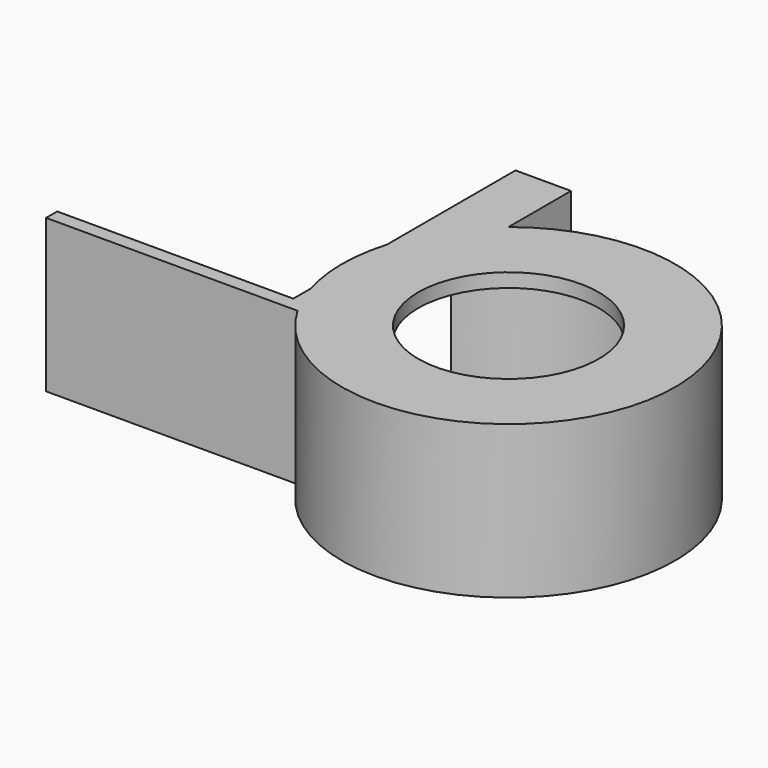
from build123d import *

# Parameters (mm, degrees)
CYLINDER040_R     = 6.5
CYLINDER040_DEPTH = 11
CYLINDER026_R     = 2.5
CYLINDER026_DEPTH = 11
CYLINDER025_R     = 2.5
CYLINDER025_DEPTH = 11
BOX006_W          = 1
BOX006_H          = 7
BOX006_DEPTH      = 11
BOX_W             = 3
BOX_H             = 20
BOX_DEPTH         = 1
CYLINDER024_R     = 12
CYLINDER024_DEPTH = 1
PAD011_DEPTH      = 10
BOX005_W          = 177
BOX005_H          = 100
BOX005_DEPTH      = 10
CYLINDER018_R     = 7.5
CYLINDER018_DEPTH = 10
CYLINDER016_R     = 10
CYLINDER016_DEPTH = 10
CYLINDER017_R     = 7.5
CYLINDER017_DEPTH = 10
CYLINDER019_R     = 10
CYLINDER019_DEPTH = 10
PAD009_DEPTH      = 6.5
PAD008_DEPTH      = 4
PAD010_DEPTH      = 10
CYLINDER021_R     = 7.5
CYLINDER021_DEPTH = 10
CYLINDER020_R     = 10
CYLINDER020_DEPTH = 10
CYLINDER022_R     = 7.5
CYLINDER022_DEPTH = 10
CYLINDER023_R     = 10
CYLINDER023_DEPTH = 10
TUBE_R            = 12
TUBE_R_2          = 10.1
TUBE_DEPTH        = 10
BOX007_W          = 19
BOX007_H          = 1
BOX007_DEPTH      = 11


with BuildPart() as cilindro040:
    # Cylinder040 → Cylinder040 (new body)
    with BuildSketch(Plane(origin=(-97, 0, 0), x_dir=(1, 0, 0), z_dir=(0, 0, 1))):
        Circle(CYLINDER040_R)
    extrude(amount=CYLINDER040_DEPTH)


with BuildPart() as cilindro026:
    # Cylinder026 → Cylinder026 (new body)
    with BuildSketch(Plane(origin=(-83, 10, 0), x_dir=(1, 0, 0), z_dir=(0, 0, 1))):
        Circle(CYLINDER026_R)
    extrude(amount=CYLINDER026_DEPTH)


with BuildPart() as cilindro025:
    # Cylinder025 → Cylinder025 (new body)
    with BuildSketch(Plane(origin=(-75, 0, 0), x_dir=(1, 0, 0), z_dir=(0, 0, 1))):
        Circle(CYLINDER025_R)
    extrude(amount=CYLINDER025_DEPTH)


with BuildPart() as cubo002:
    # Box006 → Box006 (new body)
    with BuildSketch(Plane(origin=(-89.5, 8, 0), x_dir=(1, 0, 0), z_dir=(0, 0, 1))):
        with Locations((0.5, 3.5)):
            Rectangle(BOX006_W, BOX006_H)
    extrude(amount=BOX006_DEPTH)


with BuildPart() as cubo001:
    # Box → Box (new body)
    with BuildSketch(Plane(origin=(-88.5, -5, 10), x_dir=(1, 0, 0), z_dir=(0, 0, 1))):
        with Locations((1.5, 10)):
            Rectangle(BOX_W, BOX_H)
    extrude(amount=BOX_DEPTH)


with BuildPart() as cilindro024:
    # Cylinder024 → Cylinder024 (new body)
    with BuildSketch(Plane(origin=(-97, 0, 10), x_dir=(1, 0, 0), z_dir=(0, 0, 1))):
        Circle(CYLINDER024_R)
    extrude(amount=CYLINDER024_DEPTH)


with BuildPart() as body008:
    # Sketch011 → Pad011 (new body)
    with BuildSketch(Plane.XY):
        Polygon((8.5, 4.907477), (0, 9.814955), (-8.5, 4.907477), (-8.5, -4.907477), (0, -9.814955), (8.5, -4.907477), align=None)
    extrude(amount=PAD011_DEPTH)


with BuildPart() as body008_1:
    # Body008 placement: moved
    add(body008.part.moved(Location((0, 45.1, 0))))


with BuildPart() as cut018:
    # Box005 → Box005 (new body)
    with BuildSketch(Plane(origin=(-88.5, -5, 0), x_dir=(1, 0, 0), z_dir=(0, 0, 1))):
        with Locations((88.5, 50)):
            Rectangle(BOX005_W, BOX005_H)
    extrude(amount=BOX005_DEPTH)

    # Cut018: cut Body008
    add(body008_1.part, mode=Mode.SUBTRACT)


with BuildPart() as cilindro018:
    # Cylinder018 → Cylinder018 (new body)
    with BuildSketch(Plane(origin=(0, 20, 0), x_dir=(1, 0, 0), z_dir=(0, 0, 1))):
        Circle(CYLINDER018_R)
    extrude(amount=CYLINDER018_DEPTH)


with BuildPart() as obj1:
    # Cylinder016 → Cylinder016 (new body)
    with BuildSketch(Plane(origin=(0, 20, 0), x_dir=(1, 0, 0), z_dir=(0, 0, 1))):
        Circle(CYLINDER016_R)
    extrude(amount=CYLINDER016_DEPTH)

    # Cut014: cut Cilindro018
    add(cilindro018.part, mode=Mode.SUBTRACT)


with BuildPart() as obj1_1:
    # Cut014 placement: moved
    add(obj1.part.moved(Location((-97, -20, 0))))


with BuildPart() as cilindro017:
    # Cylinder017 → Cylinder017 (new body)
    with BuildSketch(Plane(origin=(0, 20, 0), x_dir=(1, 0, 0), z_dir=(0, 0, 1))):
        Circle(CYLINDER017_R)
    extrude(amount=CYLINDER017_DEPTH)


with BuildPart() as fusion007:
    # Cylinder019 → Cylinder019 (new body)
    with BuildSketch(Plane(origin=(0, 20, 0), x_dir=(1, 0, 0), z_dir=(0, 0, 1))):
        Circle(CYLINDER019_R)
    extrude(amount=CYLINDER019_DEPTH)

    # Cut015: cut Cilindro017
    add(cilindro017.part, mode=Mode.SUBTRACT)


with BuildPart() as fusion007_1:
    # Cut015 placement: moved
    add(fusion007.part.moved(Location((97, -20, 0))))

    # Fusion007: union obj1
    add(obj1_1.part)


with BuildPart() as cuerpo005:
    # Sketch010 → Pad009 (new body)
    with BuildSketch(Plane.XY):
        Polygon((0, 7.505553), (-6.5, 3.752777), (-6.5, -3.752777), (0, -7.505553), (6.5, -3.752777), (6.5, 3.752777), align=None)
    extrude(amount=PAD009_DEPTH)

    # Sketch009 (on Face8 of Pad009) → Pad008 (join)
    with BuildSketch(Plane.XY.offset(6.5)):
        Polygon((0, 5.773503), (-5, 2.886751), (-5, -2.886751), (0, -5.773503), (5, -2.886751), (5, 2.886751), align=None)
    extrude(amount=PAD008_DEPTH)


with BuildPart() as cut016:
    # Sketch008 → Pad010 (new body)
    with BuildSketch(Plane.XY):
        Polygon((0, 9.814955), (-8.5, 4.907477), (-8.5, -4.907477), (0, -9.814955), (8.5, -4.907477), (8.5, 4.907477), align=None)
    extrude(amount=PAD010_DEPTH)

    # Cut016: cut Cuerpo005
    add(cuerpo005.part, mode=Mode.SUBTRACT)


with BuildPart() as cut016_1:
    # Cut016 placement: moved
    add(cut016.part.moved(Location((0, 45.1, 0))))


with BuildPart() as cilindro021:
    # Cylinder021 → Cylinder021 (new body)
    with BuildSketch(Plane(origin=(0, 20, 0), x_dir=(1, 0, 0), z_dir=(0, 0, 1))):
        Circle(CYLINDER021_R)
    extrude(amount=CYLINDER021_DEPTH)


with BuildPart() as obj2:
    # Cylinder020 → Cylinder020 (new body)
    with BuildSketch(Plane(origin=(0, 20, 0), x_dir=(1, 0, 0), z_dir=(0, 0, 1))):
        Circle(CYLINDER020_R)
    extrude(amount=CYLINDER020_DEPTH)

    # Cut017: cut Cilindro021
    add(cilindro021.part, mode=Mode.SUBTRACT)


with BuildPart() as obj2_1:
    # Cut017 placement: moved
    add(obj2.part.moved(Location((-97, -20, 0))))


with BuildPart() as cilindro022:
    # Cylinder022 → Cylinder022 (new body)
    with BuildSketch(Plane(origin=(0, 20, 0), x_dir=(1, 0, 0), z_dir=(0, 0, 1))):
        Circle(CYLINDER022_R)
    extrude(amount=CYLINDER022_DEPTH)


with BuildPart() as fusion008:
    # Cylinder023 → Cylinder023 (new body)
    with BuildSketch(Plane(origin=(0, 20, 0), x_dir=(1, 0, 0), z_dir=(0, 0, 1))):
        Circle(CYLINDER023_R)
    extrude(amount=CYLINDER023_DEPTH)

    # Cut019: cut Cilindro022
    add(cilindro022.part, mode=Mode.SUBTRACT)


with BuildPart() as fusion008_1:
    # Cut019 placement: moved
    add(fusion008.part.moved(Location((97, -20, 0))))

    # Fusion009: union obj2
    add(obj2_1.part)


with BuildPart() as fusion008_2:
    # Fusion009 placement: moved
    add(fusion008_1.part.moved(Location((0, 90, 0))))

    # Fusion008: union Cut018, Fusion007, Cut016
    add(cut018.part)
    add(fusion007_1.part)
    add(cut016_1.part)


with BuildPart() as cut020:
    # Tube → Tube (new body)
    with BuildSketch(Plane(origin=(-97, 0, 0), x_dir=(1, 0, 0), z_dir=(0, 0, 1))):
        Circle(TUBE_R)
        Circle(TUBE_R_2, mode=Mode.SUBTRACT)
    extrude(amount=TUBE_DEPTH)

    # Cut020: cut Fusion008
    add(fusion008_2.part, mode=Mode.SUBTRACT)


with BuildPart() as cut034:
    # Box007 → Box007 (new body)
    with BuildSketch(Plane(origin=(-87.5, -6, 0), x_dir=(1, 0, 0), z_dir=(0, 0, 1))):
        with Locations((9.5, 0.5)):
            Rectangle(BOX007_W, BOX007_H)
    extrude(amount=BOX007_DEPTH)

    # Fusion010: union Cubo002, Cubo001, Cilindro024, Cut020
    add(cubo002.part)
    add(cubo001.part)
    add(cilindro024.part)
    add(cut020.part)

    # Cut021: cut Cilindro025
    add(cilindro025.part, mode=Mode.SUBTRACT)

    # Cut022: cut Cilindro026
    add(cilindro026.part, mode=Mode.SUBTRACT)

    # Cut034: cut Cilindro040
    add(cilindro040.part, mode=Mode.SUBTRACT)


with BuildPart() as part_mirroring:
    # Part__Mirroring: instance of Cut034
    add(cut034.part.mirror(Plane(origin=(0, 0, 0), x_dir=(0, -1, 0), z_dir=(1, 0, 0))))


solid = part_mirroring.part
